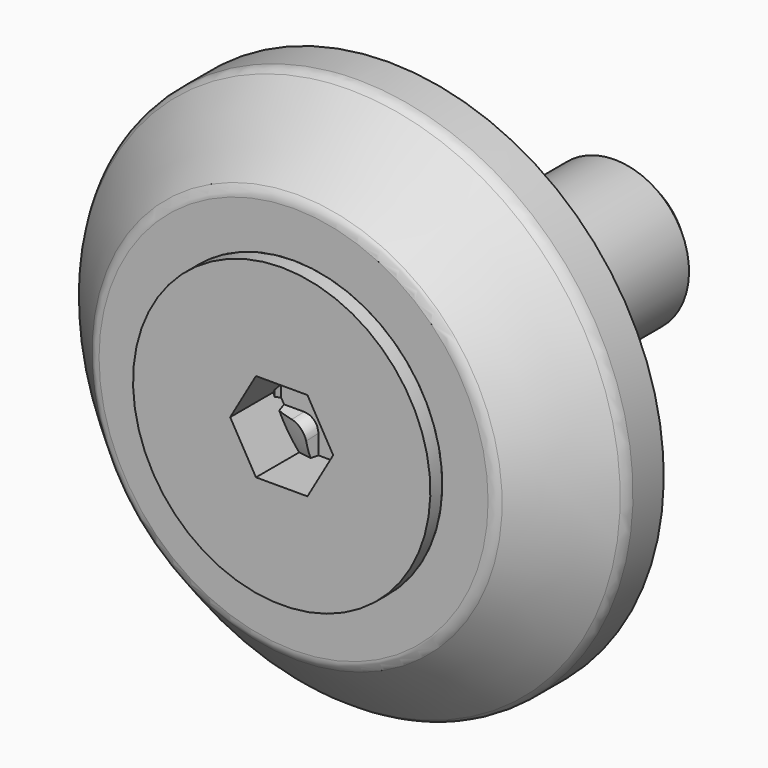
from build123d import *

# Parameters (mm, degrees)
F5_D           = 7
F5_CSINK_D     = 8
F5_CSINK_ANGLE = 90
F9_D           = 10
F9_CSINK_D     = 20
F9_CSINK_ANGLE = 90
F10_R          = 1
F15_W          = 2
F15_H          = 2.5
F15_W_2        = 2.5
F15_H_2        = 2
F16_DEPTH      = 2.5
F16_TAPER      = 15
F17_R          = 1
F21_DEPTH      = 4
F22_SIZE       = 1
F22_2_SIZE     = 1


with BuildPart() as f3:
    # F2 (on Right) → F3 (revolve)
    with BuildSketch(Plane.YZ):
        with BuildLine():
            Line((-3, 0), (0, 0))
            Line((0, 0), (0, 10))
            Line((0, 10), (-0.5, 10))
            ThreePointArc((-0.5, 10), (-2.267766953, 9.267766953), (-3, 7.5))
            Line((-3, 7.5), (-3, 0))
        make_face()
    revolve(axis=Axis((0, -1.5, 0), (0, -1, 0)))

    # F5 (through all)
    with Locations(Plane.XZ.offset(3)):
        with Locations((0, 0)):
            CounterSinkHole(F5_D / 2, F5_CSINK_D / 2, counter_sink_angle=F5_CSINK_ANGLE)


with BuildPart() as f7:
    # F6 (on Right) → F7 (revolve)
    with BuildSketch(Plane.YZ):
        Polygon((-8, 0), (0, 0), (0, 18.5), (-3, 18.5), (-8, 13.5), align=None)
    revolve(axis=Axis((0, -4, 0), (0, 1, 0)))

    # F9 (through all)
    with Locations(Plane.XZ.offset(8)):
        with Locations((0, 0)):
            CounterSinkHole(F9_D / 2, F9_CSINK_D / 2, counter_sink_angle=F9_CSINK_ANGLE)

    # F10
    f10_edges = [f7.edges().sort_by_distance(p)[0] for p in [
        (0, -3, -18.5),
        (0, -8, -13.5),
        (0, -5.5, 16),
    ]]
    fillet(f10_edges, radius=F10_R)


with BuildPart() as f13:
    # F12 (on Right) → F13 (revolve)
    with BuildSketch(Plane.YZ):
        with BuildLine():
            Line((20, 0), (20, 3.5))
            Line((20, 3.5), (-3, 3.5))
            Line((-3, 3.5), (-3, 6.5))
            Line((-3, 6.5), (-3.5993420768, 6.5))
            ThreePointArc((-3.5993420768, 6.5), (-5.3806561809, 3.4645763978), (-6, 0))
            Line((-6, 0), (20, 0))
        make_face()
    revolve(axis=Axis((0, 7, 0), (0, -1, 0)))

    # F15 (on plane+point) → F16 (cut)
    with BuildSketch(Plane.XZ.offset(6)):
        with Locations((0, 2.25)):
            Rectangle(F15_W, F15_H)
        with Locations((2.25, 0)):
            Rectangle(F15_W_2, F15_H_2)
        Rectangle(F15_W, F15_H_2)
        with Locations((-2.25, 0)):
            Rectangle(F15_W_2, F15_H_2)
        with Locations((0, -2.25)):
            Rectangle(F15_W, F15_H)
    extrude(amount=-F16_DEPTH, taper=F16_TAPER, mode=Mode.SUBTRACT)

    # F17
    f17_edges = [f13.edges().sort_by_distance(p)[0] for p in [
        (-0.652281, -4.702296, 0.652281),
        (0.652281, -4.702296, 0.652281),
        (0.652281, -4.702296, -0.652281),
        (-0.652281, -4.702296, -0.652281),
    ]]
    fillet(f17_edges, radius=F17_R)

    # F22
    f22_edges = [f13.edges().sort_by_distance(p)[0] for p in [
        (0, 20, -3.5),
    ]]
    chamfer(f22_edges, length=F22_SIZE)


with BuildPart() as f19:
    # F18 (on Right) → F19 (revolve)
    with BuildSketch(Plane.YZ):
        Polygon((20, 0), (20, 5), (-3, 5), (-8, 10), (-9, 10), (-9, 0), align=None)
    revolve(axis=Axis((0, 5.5, 0), (0, 1, 0)))

    # F20 (on face) → F21 (cut)
    with BuildSketch(Plane.XZ.offset(9)):
        Polygon((1.7320508076, 3), (-1.7320508076, 3), (-3.4641016151, 0), (-1.7320508076, -3), (1.7320508076, -3), (3.4641016151, 0), align=None)
    extrude(amount=-F21_DEPTH, mode=Mode.SUBTRACT)

    # F22#2
    f22_2_edges = [f19.edges().sort_by_distance(p)[0] for p in [
        (0, 20, -5),
    ]]
    chamfer(f22_2_edges, length=F22_2_SIZE)


solid = Compound([f3.part, f7.part, f13.part, f19.part])
